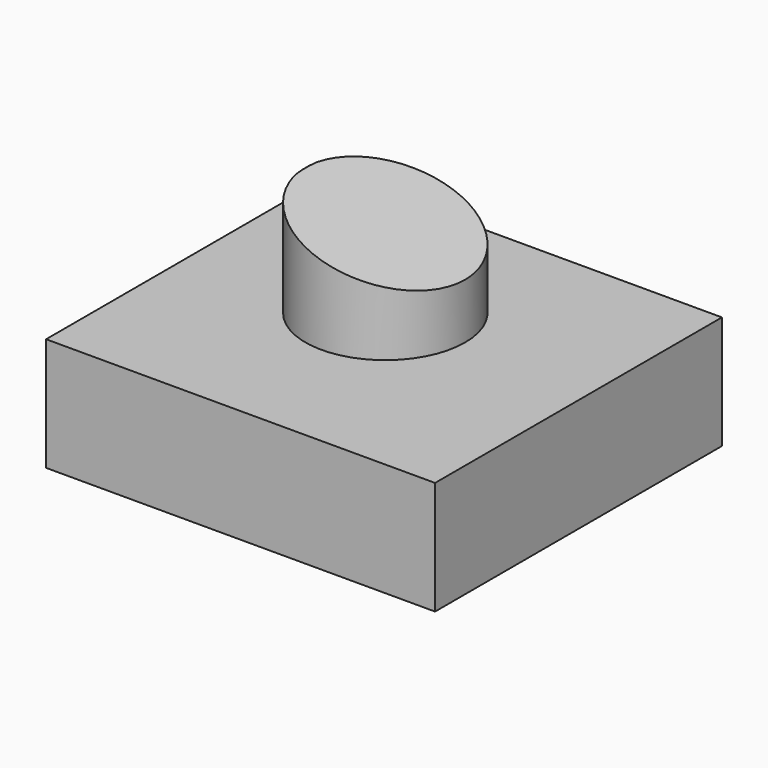
from build123d import *

# Parameters (mm, degrees)
F0_W     = 121.257108
F0_H     = 111.767154
F1_DEPTH = 35.306
F2_R     = 24.891724
F3_DEPTH = 31.75
F5_DEPTH = 152.654


with BuildPart() as f1:
    # F0 (on Top) → F1 (new body)
    with BuildSketch(Plane.XY):
        with Locations((4.806647, -6.510528)):
            Rectangle(F0_W, F0_H)
    extrude(amount=F1_DEPTH)

    # F2 (on face) → F3 (join)
    with BuildSketch(Plane.XY.offset(35.306)):
        Circle(F2_R)
    extrude(amount=F3_DEPTH)

    # F4 (on face) → F5 (cut)
    with BuildSketch(Plane.XZ.offset(62.394105)):
        Polygon((-27.139649, 79.367436), (-25.687542, 67.387573), (32.396633, 50.325349), (32.396633, 79.367436), align=None)
    extrude(amount=-F5_DEPTH, mode=Mode.SUBTRACT)


solid = f1.part
